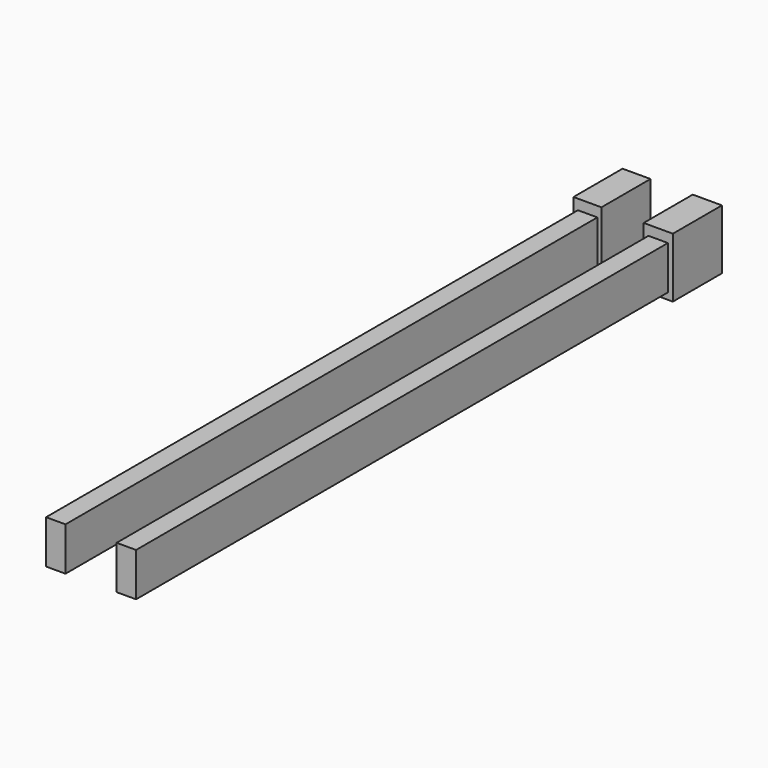
from build123d import *

# Parameters (mm, degrees)
F0_W          = 3.8
F0_H          = 8.5
F1_DEPTH      = 140
F2_W          = 5.465366
F2_H          = 11.69845
F2_W_2        = 5.702984
F3_DEPTH      = 10
F3_DEPTH_BACK = 2


with BuildPart() as f1:
    # F0 (on Front) → F1 (new body)
    with BuildSketch(Plane.XZ):
        with Locations((-35.213773, 5.455012)):
            Rectangle(F0_W, F0_H)
        with Locations((-21.413773, 5.534074)):
            Rectangle(F0_W, F0_H)
    extrude(amount=F1_DEPTH)


with BuildPart() as f3:
    # F2 (on Front) → F3 (new body, two sides)
    with BuildSketch(Plane.XZ) as f3_sk:
        with Locations((-35.249975, 5.849225)):
            Rectangle(F2_W, F2_H)
        with Locations((-21.404423, 5.849225)):
            Rectangle(F2_W_2, F2_H)
    extrude(amount=F3_DEPTH)
    extrude(f3_sk.sketch, amount=-F3_DEPTH_BACK)


solid = Compound([f1.part, f3.part])
